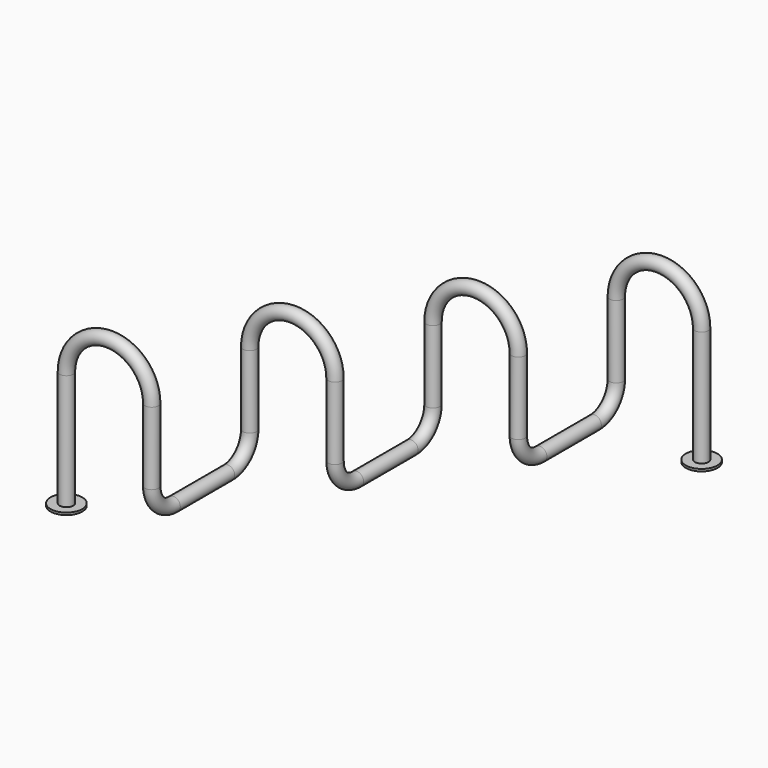
from build123d import *

# Parameters (mm, degrees)
F0_R      = 38.1
F0_R_2    = 88.9
F16_DEPTH = 12.7
F14_R     = 88.9
F14_R_2   = 38.1
F17_DEPTH = 12.7


with BuildPart() as f15:
    # F15: sweep along a path in F1, F3, F5, F7, F9, F11, F13
    with BuildLine(Plane.XZ) as f15_path:
        Line((0, 0), (0, 660.4))
        ThreePointArc((0, 660.4), (238.76, 899.16), (477.52, 660.4))
        Line((477.52, 660.4), (477.52, 254))
    with BuildLine(Plane(origin=(477.52, 0, 0), x_dir=(0, -1, 0), z_dir=(-1, 0, 0))) as f15_path_2:
        ThreePointArc((0, 254), (-44.6369265472, 146.2369265472), (-152.4, 101.6))
        Line((-152.4, 101.6), (-533.4, 101.6))
        ThreePointArc((-533.4, 101.6), (-641.1630734528, 146.2369265472), (-685.8, 254))
        Line((-685.8, 254), (-685.8, 660.4))
    with BuildLine(Plane(origin=(0, 685.8, 0), x_dir=(-1, 0, 0), z_dir=(0, 1, 0))) as f15_path_3:
        ThreePointArc((-477.52, 660.4), (-716.28, 899.16), (-955.04, 660.4))
        Line((-955.04, 660.4), (-955.04, 254))
    with BuildLine(Plane(origin=(955.04, 0, 0), x_dir=(0, -1, 0), z_dir=(-1, 0, 0))) as f15_path_4:
        ThreePointArc((-685.8, 254), (-730.4369265472, 146.2369265472), (-838.2, 101.6))
        Line((-838.2, 101.6), (-1219.2, 101.6))
        ThreePointArc((-1219.2, 101.6), (-1326.9630734528, 146.2369265472), (-1371.6, 254))
        Line((-1371.6, 254), (-1371.6, 660.4))
    with BuildLine(Plane(origin=(0, 1371.6, 0), x_dir=(-1, 0, 0), z_dir=(0, 1, 0))) as f15_path_5:
        ThreePointArc((-955.04, 660.4), (-1193.8, 899.16), (-1432.56, 660.4))
        Line((-1432.56, 660.4), (-1432.56, 254))
    with BuildLine(Plane(origin=(1432.56, 0, 0), x_dir=(0, -1, 0), z_dir=(-1, 0, 0))) as f15_path_6:
        ThreePointArc((-1371.6, 254), (-1416.2369265472, 146.2369265472), (-1524, 101.6))
        Line((-1524, 101.6), (-1905, 101.6))
        ThreePointArc((-1905, 101.6), (-2012.7630734528, 146.2369265472), (-2057.4, 254))
        Line((-2057.4, 254), (-2057.4, 660.4))
    with BuildLine(Plane(origin=(0, 2057.4, 0), x_dir=(-1, 0, 0), z_dir=(0, 1, 0))) as f15_path_7:
        ThreePointArc((-1432.56, 660.4), (-1671.32, 899.16), (-1910.08, 660.4))
        Line((-1910.08, 660.4), (-1910.08, 0))
    # F0 (on Top) → F15 (sweep)
    with BuildSketch(Plane.XY):
        Circle(F0_R)
    sweep(path=f15_path.line + f15_path_2.line + f15_path_3.line + f15_path_4.line + f15_path_5.line + f15_path_6.line + f15_path_7.line)

    # F0 (on Top) → F16 (join)
    with BuildSketch(Plane.XY):
        Circle(F0_R_2)
        Circle(F0_R, mode=Mode.SUBTRACT)
    extrude(amount=F16_DEPTH)

    # F14 (on Top) → F17 (join)
    with BuildSketch(Plane.XY):
        with Locations((1910.08, 2057.4)):
            Circle(F14_R)
        with Locations((1910.08, 2057.4)):
            Circle(F14_R_2, mode=Mode.SUBTRACT)
    extrude(amount=F17_DEPTH)


solid = f15.part
